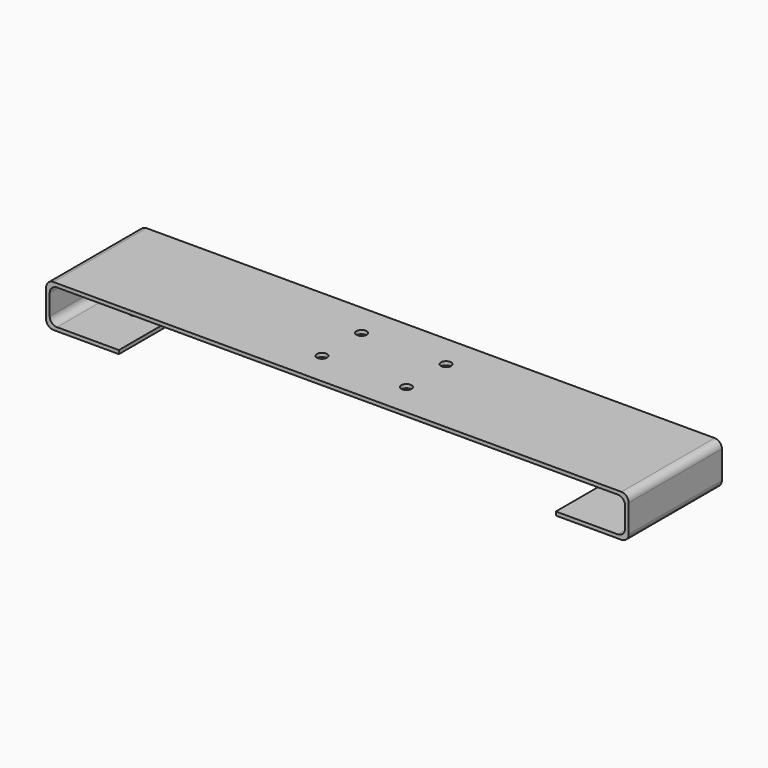
from build123d import *

# Parameters (mm, degrees)
F1_DEPTH = 40
F4_D     = 9
F4_DEPTH = 12
F4_TIP   = 2.7038727856
F5_D     = 9
F5_DEPTH = 12
F5_TIP   = 2.7038727856
F7_D     = 7
F8_R     = 5


with BuildPart() as f1:
    # F0 (on Front) → F1 (new body, symmetric)
    with BuildSketch(Plane.XZ):
        Polygon((0, 29), (0, 0), (50, 0), (50, 2.5), (2.5, 2.5), (2.5, 26.5), (397.5, 26.5), (397.5, 2.5), (350, 2.5), (350, 0), (400, 0), (400, 29), align=None)
    extrude(amount=F1_DEPTH, both=True)

    # F4 (one way)
    with BuildSketch(Plane.XY.offset(2.5)):
        with Locations((370, 0)):
            Circle(F4_D / 2)
    extrude(amount=-F4_DEPTH, mode=Mode.SUBTRACT)
    with Locations(Plane.XY.offset(2.5)):
        with Locations((370, 0)):
            with Locations((0, 0, -(F4_DEPTH + F4_TIP / 2))):  # 118° drill point
                Cone(0, F4_D / 2, F4_TIP, mode=Mode.SUBTRACT)

    # F5 (one way)
    with BuildSketch(Plane.XY.offset(2.5)):
        with Locations((30, 0)):
            Circle(F5_D / 2)
    extrude(amount=-F5_DEPTH, mode=Mode.SUBTRACT)
    with Locations(Plane.XY.offset(2.5)):
        with Locations((30, 0)):
            with Locations((0, 0, -(F5_DEPTH + F5_TIP / 2))):  # 118° drill point
                Cone(0, F5_D / 2, F5_TIP, mode=Mode.SUBTRACT)

    # F7 (through all)
    with Locations(Plane.XY.offset(29)):
        with Locations((171, 17), (229, 17), (229, -17), (171, -17)):
            Hole(F7_D / 2)

    # F8
    f8_edges = [f1.edges().sort_by_distance(p)[0] for p in [
        (0, 0, 29),
        (0, 0, 0),
        (400, 0, 29),
        (400, 0, 0),
        (2.5, 0, 2.5),
        (2.5, 0, 26.5),
        (397.5, 0, 2.5),
        (397.5, 0, 26.5),
    ]]
    fillet(f8_edges, radius=F8_R)


solid = f1.part
